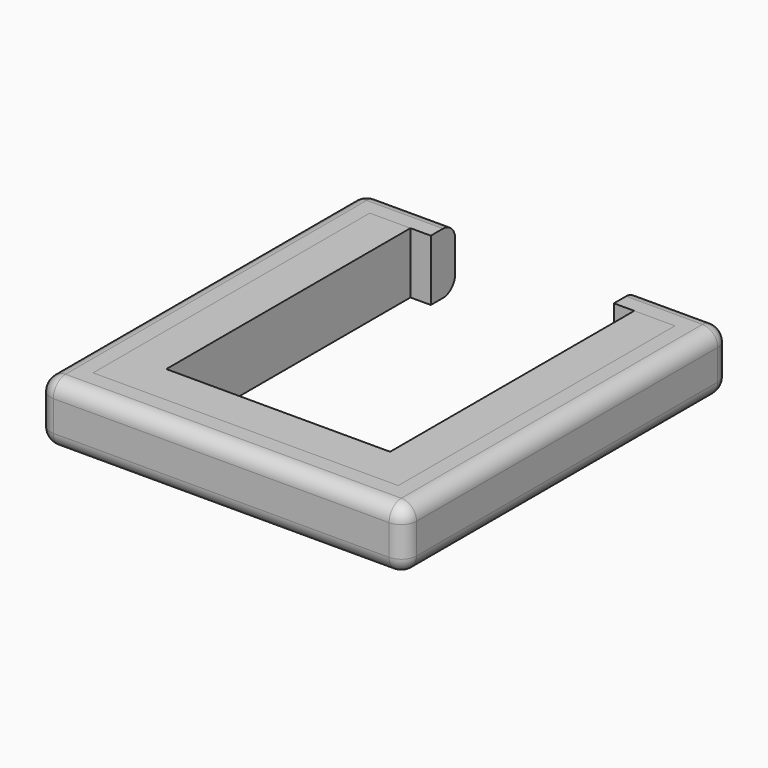
from build123d import *

# Parameters (mm, degrees)
F1_DEPTH = 152.4
F2_R     = 38.1
F4_DEPTH = 152.4


with BuildPart() as f1:
    # F0 (on Top) → F1 (new body)
    with BuildSketch(Plane.XY):
        Polygon((457.2, -508), (457.2, 508), (228.6, 508), (228.6, 431.8), (381, 431.8), (381, -431.8), (-381, -431.8), (-381, 431.8), (-228.6, 431.8), (-228.6, 508), (-457.2, 508), (-457.2, -508), align=None)
    extrude(amount=F1_DEPTH)

    # F2
    f2_edges = [f1.edges().sort_by_distance(p)[0] for p in [
        (0, -508, 152.4),
        (-457.2, 0, 152.4),
        (-457.2, -508, 76.2),
        (0, -508, 0),
        (457.2, -508, 76.2),
        (457.2, 0, 152.4),
        (457.2, 0, 0),
        (342.9, 508, 152.4),
        (-342.9, 508, 152.4),
        (342.9, 508, 0),
        (-342.9, 508, 0),
        (457.2, 508, 76.2),
        (-457.2, 508, 76.2),
        (-457.2, 0, 0),
    ]]
    fillet(f2_edges, radius=F2_R)


with BuildPart() as f4:
    # F3 (on Top) → F4 (new body)
    with BuildSketch(Plane.XY):
        Polygon((-279.4, 431.8), (-381, 431.8), (-381, -431.8), (381, -431.8), (381, 431.8), (279.4, 431.8), (279.4, -330.2), (-279.4, -330.2), align=None)
    extrude(amount=F4_DEPTH)


solid = Compound([f1.part, f4.part])
